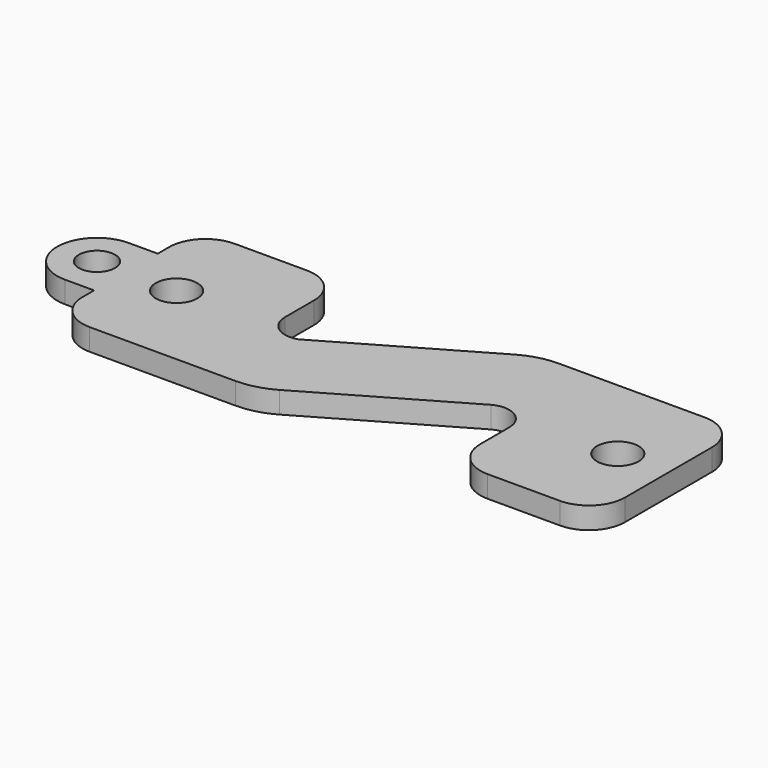
from build123d import *

# Parameters (mm, degrees)
F0_R     = 2.5
F0_R_2   = 2.875
F1_DEPTH = 3
F2_R     = 5
F3_R     = 10


with BuildPart() as f1:
    # F0 (on Top) → F1 (new body)
    with BuildSketch(Plane.XY):
        with BuildLine():
            Line((37.5, -12.5), (37.5, 12.5))
            Line((37.5, 12.5), (9.650635, 12.5))
            Line((9.650635, 12.5), (-12, 0))
            ThreePointArc((-12, 0), (-12.522727, -0.37363), (-13.107664, -0.63951))
            ThreePointArc((-13.107664, -0.63951), (-16.111338, -0.199497), (-17.5, 2.5))
            Line((-17.5, 2.5), (-17.5, 12.5))
            Line((-17.5, 12.5), (-37.5, 12.5))
            Line((-37.5, 12.5), (-37.5, 5.5))
            Line((-37.5, 5.5), (-41.5, 5.5))
            ThreePointArc((-41.5, 5.5), (-47, 0), (-41.5, -5.5))
            Line((-41.5, -5.5), (-37.5, -5.5))
            Line((-37.5, -5.5), (-37.5, -12.5))
            Line((-37.5, -12.5), (-9.650635, -12.5))
            Line((-9.650635, -12.5), (12.679396, 0.392249))
            ThreePointArc((12.679396, 0.392249), (15.908496, 0.310842), (17.5, -2.5))
            Line((17.5, -2.5), (17.5, -12.5))
            Line((17.5, -12.5), (37.5, -12.5))
        make_face()
        with Locations((-41.5, 0)):
            Circle(F0_R, mode=Mode.SUBTRACT)
        with Locations((-30.5, 0)):
            Circle(F0_R_2, mode=Mode.SUBTRACT)
        with Locations((30.5, 0)):
            Circle(F0_R_2, mode=Mode.SUBTRACT)
        with BuildLine():
            ThreePointArc((-13.107664, -0.63951), (-12.522727, -0.37363), (-12, 0))
            Line((-12, 0), (-13.107664, -0.63951))
        make_face()
    extrude(amount=F1_DEPTH)

    # F2
    f2_edges = [f1.edges().sort_by_distance(p)[0] for p in [
        (-17.5, 12.5, 1.5),
        (17.5, -12.5, 1.5),
        (37.5, -12.5, 1.5),
        (37.5, 12.5, 1.5),
        (-37.5, -12.5, 1.5),
        (-37.5, 12.5, 1.5),
    ]]
    fillet(f2_edges, radius=F2_R)

    # F3
    f3_edges = [f1.edges().sort_by_distance(p)[0] for p in [
        (-9.650635, -12.5, 1.5),
        (9.650635, 12.5, 1.5),
    ]]
    fillet(f3_edges, radius=F3_R)


solid = f1.part
